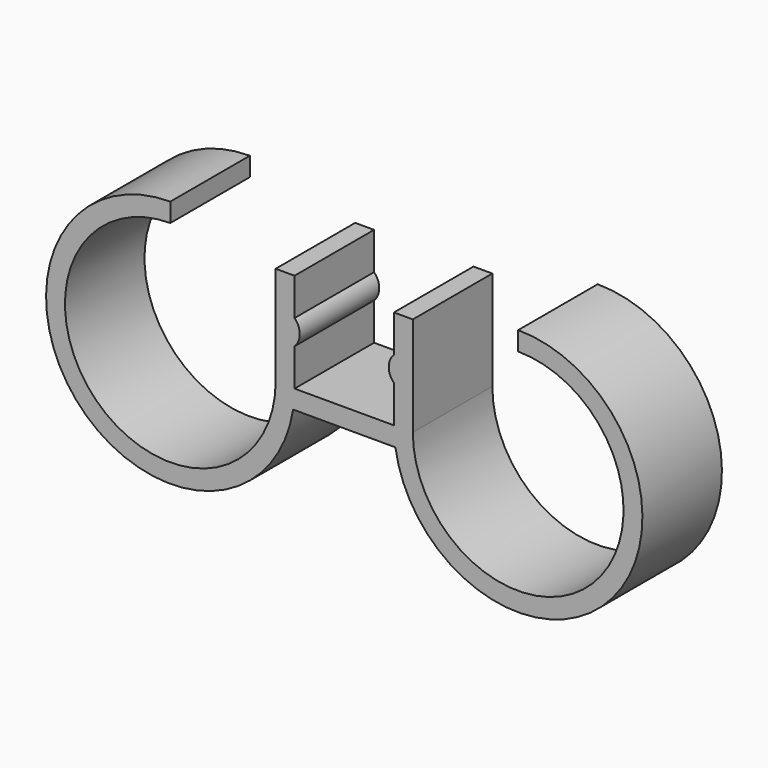
from build123d import *

# Parameters (mm, degrees)
F1_DEPTH = 10


with BuildPart() as f1:
    # F0 (on Front) → F1 (new body, symmetric)
    with BuildSketch(Plane.XZ):
        with BuildLine():
            Line((-35, 11.2), (-35, 15))
            ThreePointArc((-35, 15), (-53.973666, -26.278821), (-10.290488, -13.8))
            Line((-10.290488, -13.8), (0, -13.8))
            Line((0, -13.8), (0, -10))
            Line((0, -10), (-10, -10))
            Line((-10, -10), (-10, -2.5))
            ThreePointArc((-10, -2.5), (-8.94949, 0), (-10, 2.5))
            Line((-10, 2.5), (-10, 10))
            Line((-10, 10), (-13.8, 10))
            Line((-13.8, 10), (-13.8, -10))
            ThreePointArc((-13.8, -10), (-49.990664, -24.990664), (-35, 11.2))
        make_face()
        with BuildLine():
            Line((0, -10), (0, -13.8))
            Line((0, -13.8), (10.290488, -13.8))
            ThreePointArc((10.290488, -13.8), (53.973666, -26.278821), (35, 15))
            Line((35, 15), (35, 11.2))
            ThreePointArc((35, 11.2), (49.990664, -24.990664), (13.8, -10))
            Line((13.8, -10), (13.8, 10))
            Line((13.8, 10), (10, 10))
            Line((10, 10), (10, 2.5))
            ThreePointArc((10, 2.5), (8.94949, 0), (10, -2.5))
            Line((10, -2.5), (10, -10))
            Line((10, -10), (0, -10))
        make_face()
    extrude(amount=F1_DEPTH, both=True)


solid = f1.part
